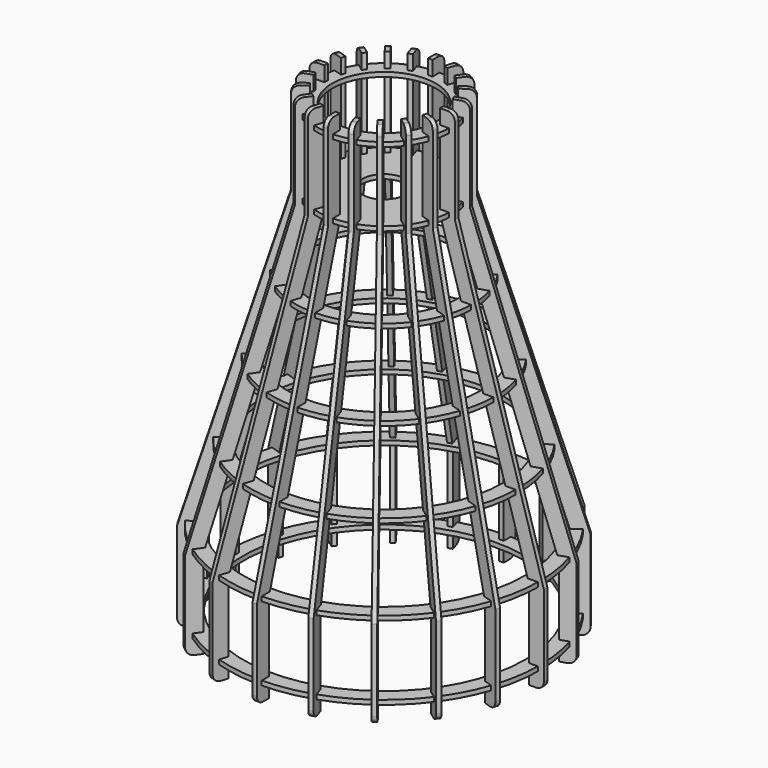
from build123d import *

# Parameters (mm, degrees)
F6_R      = 35
F7_DEPTH  = 3
F8_R      = 14.5
F9_DEPTH  = 3
F10_R     = 50
F11_DEPTH = 3
F12_R     = 65
F13_DEPTH = 3
F14_R     = 80
F15_DEPTH = 3
F16_R     = 95
F17_DEPTH = 3
F18_R     = 95
F19_DEPTH = 3
F21_DEPTH = 1.5
F22_COUNT = 20


with BuildPart() as f7:
    # F6 (on offset) → F7 (new body)
    with BuildSketch(Plane.XY.offset(150)):
        with BuildLine():
            Line((-42, -1.4), (-44.978217, -1.4))
            ThreePointArc((-44.978217, -1.4), (-44.445975, -7.039551), (-43.20945, -12.567554))
            Line((-43.20945, -12.567554), (-40.376997, -11.647235))
            Line((-40.376997, -11.647235), (-39.51175, -14.310193))
            Line((-39.51175, -14.310193), (-42.344203, -15.230513))
            ThreePointArc((-42.344203, -15.230513), (-40.095294, -20.429572), (-37.211041, -25.304909))
            Line((-37.211041, -25.304909), (-34.801613, -23.554357))
            Line((-34.801613, -23.554357), (-33.155814, -25.819604))
            Line((-33.155814, -25.819604), (-35.565243, -27.570156))
            ThreePointArc((-35.565243, -27.570156), (-31.819805, -31.819805), (-27.570156, -35.565243))
            Line((-27.570156, -35.565243), (-25.819604, -33.155814))
            Line((-25.819604, -33.155814), (-23.554357, -34.801613))
            Line((-23.554357, -34.801613), (-25.304909, -37.211041))
            ThreePointArc((-25.304909, -37.211041), (-20.429572, -40.095294), (-15.230513, -42.344203))
            Line((-15.230513, -42.344203), (-14.310193, -39.51175))
            Line((-14.310193, -39.51175), (-11.647235, -40.376997))
            Line((-11.647235, -40.376997), (-12.567554, -43.20945))
            ThreePointArc((-12.567554, -43.20945), (-7.039551, -44.445975), (-1.4, -44.978217))
            Line((-1.4, -44.978217), (-1.4, -42))
            Line((-1.4, -42), (1.4, -42))
            Line((1.4, -42), (1.4, -44.978217))
            ThreePointArc((1.4, -44.978217), (7.039551, -44.445975), (12.567554, -43.20945))
            Line((12.567554, -43.20945), (11.647235, -40.376997))
            Line((11.647235, -40.376997), (14.310193, -39.51175))
            Line((14.310193, -39.51175), (15.230513, -42.344203))
            ThreePointArc((15.230513, -42.344203), (20.429572, -40.095294), (25.304909, -37.211041))
            Line((25.304909, -37.211041), (23.554357, -34.801613))
            Line((23.554357, -34.801613), (25.819604, -33.155814))
            Line((25.819604, -33.155814), (27.570156, -35.565243))
            ThreePointArc((27.570156, -35.565243), (31.819805, -31.819805), (35.565243, -27.570156))
            Line((35.565243, -27.570156), (33.155814, -25.819604))
            Line((33.155814, -25.819604), (34.801613, -23.554357))
            Line((34.801613, -23.554357), (37.211041, -25.304909))
            ThreePointArc((37.211041, -25.304909), (40.095294, -20.429572), (42.344203, -15.230513))
            Line((42.344203, -15.230513), (39.51175, -14.310193))
            Line((39.51175, -14.310193), (40.376997, -11.647235))
            Line((40.376997, -11.647235), (43.20945, -12.567554))
            ThreePointArc((43.20945, -12.567554), (44.445975, -7.039551), (44.978217, -1.4))
            Line((44.978217, -1.4), (42, -1.4))
            Line((42, -1.4), (42, 1.4))
            Line((42, 1.4), (44.978217, 1.4))
            ThreePointArc((44.978217, 1.4), (44.445975, 7.039551), (43.20945, 12.567554))
            Line((43.20945, 12.567554), (40.376997, 11.647235))
            Line((40.376997, 11.647235), (39.51175, 14.310193))
            Line((39.51175, 14.310193), (42.344203, 15.230513))
            ThreePointArc((42.344203, 15.230513), (40.095294, 20.429572), (37.211041, 25.304909))
            Line((37.211041, 25.304909), (34.801613, 23.554357))
            Line((34.801613, 23.554357), (33.155814, 25.819604))
            Line((33.155814, 25.819604), (35.565243, 27.570156))
            ThreePointArc((35.565243, 27.570156), (31.819805, 31.819805), (27.570156, 35.565243))
            Line((27.570156, 35.565243), (25.819604, 33.155814))
            Line((25.819604, 33.155814), (23.554357, 34.801613))
            Line((23.554357, 34.801613), (25.304909, 37.211041))
            ThreePointArc((25.304909, 37.211041), (20.429572, 40.095294), (15.230513, 42.344203))
            Line((15.230513, 42.344203), (14.310193, 39.51175))
            Line((14.310193, 39.51175), (11.647235, 40.376997))
            Line((11.647235, 40.376997), (12.567554, 43.20945))
            ThreePointArc((12.567554, 43.20945), (7.039551, 44.445975), (1.4, 44.978217))
            Line((1.4, 44.978217), (1.4, 42))
            Line((1.4, 42), (-1.4, 42))
            Line((-1.4, 42), (-1.4, 44.978217))
            ThreePointArc((-1.4, 44.978217), (-7.039551, 44.445975), (-12.567554, 43.20945))
            Line((-12.567554, 43.20945), (-11.647235, 40.376997))
            Line((-11.647235, 40.376997), (-14.310193, 39.51175))
            Line((-14.310193, 39.51175), (-15.230513, 42.344203))
            ThreePointArc((-15.230513, 42.344203), (-20.429572, 40.095294), (-25.304909, 37.211041))
            Line((-25.304909, 37.211041), (-23.554357, 34.801613))
            Line((-23.554357, 34.801613), (-25.819604, 33.155814))
            Line((-25.819604, 33.155814), (-27.570156, 35.565243))
            ThreePointArc((-27.570156, 35.565243), (-31.819805, 31.819805), (-35.565243, 27.570156))
            Line((-35.565243, 27.570156), (-33.155814, 25.819604))
            Line((-33.155814, 25.819604), (-34.801613, 23.554357))
            Line((-34.801613, 23.554357), (-37.211041, 25.304909))
            ThreePointArc((-37.211041, 25.304909), (-40.095294, 20.429572), (-42.344203, 15.230513))
            Line((-42.344203, 15.230513), (-39.51175, 14.310193))
            Line((-39.51175, 14.310193), (-40.376997, 11.647235))
            Line((-40.376997, 11.647235), (-43.20945, 12.567554))
            ThreePointArc((-43.20945, 12.567554), (-44.445975, 7.039551), (-44.978217, 1.4))
            Line((-44.978217, 1.4), (-42, 1.4))
            Line((-42, 1.4), (-42, -1.4))
        make_face()
        Circle(F6_R, mode=Mode.SUBTRACT)
    extrude(amount=F7_DEPTH)


with BuildPart() as f9:
    # F8 (on offset) → F9 (new body)
    with BuildSketch(Plane.XY.offset(100)):
        with BuildLine():
            Line((-41.978217, -1.4), (-44.978217, -1.4))
            ThreePointArc((-44.978217, -1.4), (-44.445975, -7.039551), (-43.20945, -12.567554))
            Line((-43.20945, -12.567554), (-40.356281, -11.640503))
            Line((-40.356281, -11.640503), (-39.491033, -14.303462))
            Line((-39.491033, -14.303462), (-42.344203, -15.230513))
            ThreePointArc((-42.344203, -15.230513), (-40.095294, -20.429572), (-37.211041, -25.304909))
            Line((-37.211041, -25.304909), (-34.78399, -23.541553))
            Line((-34.78399, -23.541553), (-33.138192, -25.806801))
            Line((-33.138192, -25.806801), (-35.565243, -27.570156))
            ThreePointArc((-35.565243, -27.570156), (-31.819805, -31.819805), (-27.570156, -35.565243))
            Line((-27.570156, -35.565243), (-25.806801, -33.138192))
            Line((-25.806801, -33.138192), (-23.541553, -34.78399))
            Line((-23.541553, -34.78399), (-25.304909, -37.211041))
            ThreePointArc((-25.304909, -37.211041), (-20.429572, -40.095294), (-15.230513, -42.344203))
            Line((-15.230513, -42.344203), (-14.303462, -39.491033))
            Line((-14.303462, -39.491033), (-11.640503, -40.356281))
            Line((-11.640503, -40.356281), (-12.567554, -43.20945))
            ThreePointArc((-12.567554, -43.20945), (-7.039551, -44.445975), (-1.4, -44.978217))
            Line((-1.4, -44.978217), (-1.4, -41.978217))
            Line((-1.4, -41.978217), (1.4, -41.978217))
            Line((1.4, -41.978217), (1.4, -44.978217))
            ThreePointArc((1.4, -44.978217), (7.039551, -44.445975), (12.567554, -43.20945))
            Line((12.567554, -43.20945), (11.640503, -40.356281))
            Line((11.640503, -40.356281), (14.303462, -39.491033))
            Line((14.303462, -39.491033), (15.230513, -42.344203))
            ThreePointArc((15.230513, -42.344203), (20.429572, -40.095294), (25.304909, -37.211041))
            Line((25.304909, -37.211041), (23.541553, -34.78399))
            Line((23.541553, -34.78399), (25.806801, -33.138192))
            Line((25.806801, -33.138192), (27.570156, -35.565243))
            ThreePointArc((27.570156, -35.565243), (31.819805, -31.819805), (35.565243, -27.570156))
            Line((35.565243, -27.570156), (33.138192, -25.806801))
            Line((33.138192, -25.806801), (34.78399, -23.541553))
            Line((34.78399, -23.541553), (37.211041, -25.304909))
            ThreePointArc((37.211041, -25.304909), (40.095294, -20.429572), (42.344203, -15.230513))
            Line((42.344203, -15.230513), (39.491033, -14.303462))
            Line((39.491033, -14.303462), (40.356281, -11.640503))
            Line((40.356281, -11.640503), (43.20945, -12.567554))
            ThreePointArc((43.20945, -12.567554), (44.445975, -7.039551), (44.978217, -1.4))
            Line((44.978217, -1.4), (41.978217, -1.4))
            Line((41.978217, -1.4), (41.978217, 1.4))
            Line((41.978217, 1.4), (44.978217, 1.4))
            ThreePointArc((44.978217, 1.4), (44.445975, 7.039551), (43.20945, 12.567554))
            Line((43.20945, 12.567554), (40.356281, 11.640503))
            Line((40.356281, 11.640503), (39.491033, 14.303462))
            Line((39.491033, 14.303462), (42.344203, 15.230513))
            ThreePointArc((42.344203, 15.230513), (40.095294, 20.429572), (37.211041, 25.304909))
            Line((37.211041, 25.304909), (34.78399, 23.541553))
            Line((34.78399, 23.541553), (33.138192, 25.806801))
            Line((33.138192, 25.806801), (35.565243, 27.570156))
            ThreePointArc((35.565243, 27.570156), (31.819805, 31.819805), (27.570156, 35.565243))
            Line((27.570156, 35.565243), (25.806801, 33.138192))
            Line((25.806801, 33.138192), (23.541553, 34.78399))
            Line((23.541553, 34.78399), (25.304909, 37.211041))
            ThreePointArc((25.304909, 37.211041), (20.429572, 40.095294), (15.230513, 42.344203))
            Line((15.230513, 42.344203), (14.303462, 39.491033))
            Line((14.303462, 39.491033), (11.640503, 40.356281))
            Line((11.640503, 40.356281), (12.567554, 43.20945))
            ThreePointArc((12.567554, 43.20945), (7.039551, 44.445975), (1.4, 44.978217))
            Line((1.4, 44.978217), (1.4, 41.978217))
            Line((1.4, 41.978217), (-1.4, 41.978217))
            Line((-1.4, 41.978217), (-1.4, 44.978217))
            ThreePointArc((-1.4, 44.978217), (-7.039551, 44.445975), (-12.567554, 43.20945))
            Line((-12.567554, 43.20945), (-11.640503, 40.356281))
            Line((-11.640503, 40.356281), (-14.303462, 39.491033))
            Line((-14.303462, 39.491033), (-15.230513, 42.344203))
            ThreePointArc((-15.230513, 42.344203), (-20.429572, 40.095294), (-25.304909, 37.211041))
            Line((-25.304909, 37.211041), (-23.541553, 34.78399))
            Line((-23.541553, 34.78399), (-25.806801, 33.138192))
            Line((-25.806801, 33.138192), (-27.570156, 35.565243))
            ThreePointArc((-27.570156, 35.565243), (-31.819805, 31.819805), (-35.565243, 27.570156))
            Line((-35.565243, 27.570156), (-33.138192, 25.806801))
            Line((-33.138192, 25.806801), (-34.78399, 23.541553))
            Line((-34.78399, 23.541553), (-37.211041, 25.304909))
            ThreePointArc((-37.211041, 25.304909), (-40.095294, 20.429572), (-42.344203, 15.230513))
            Line((-42.344203, 15.230513), (-39.491033, 14.303462))
            Line((-39.491033, 14.303462), (-40.356281, 11.640503))
            Line((-40.356281, 11.640503), (-43.20945, 12.567554))
            ThreePointArc((-43.20945, 12.567554), (-44.445975, 7.039551), (-44.978217, 1.4))
            Line((-44.978217, 1.4), (-41.978217, 1.4))
            Line((-41.978217, 1.4), (-41.978217, -1.4))
        make_face()
        Circle(F8_R, mode=Mode.SUBTRACT)
    extrude(amount=F9_DEPTH)


with BuildPart() as f11:
    # F10 (on offset) → F11 (new body)
    with BuildSketch(Plane.XY.offset(50)):
        with BuildLine():
            Line((-57, -1.4), (-59.983664, -1.4))
            ThreePointArc((-59.983664, -1.4), (-59.2613, -9.386068), (-57.480479, -17.204493))
            Line((-57.480479, -17.204493), (-54.642845, -16.28249))
            Line((-54.642845, -16.28249), (-53.777598, -18.945448))
            Line((-53.777598, -18.945448), (-56.615231, -19.867451))
            ThreePointArc((-56.615231, -19.867451), (-53.460391, -27.23943), (-49.350703, -34.12489))
            Line((-49.350703, -34.12489), (-46.936868, -32.371136))
            Line((-46.936868, -32.371136), (-45.291069, -34.636383))
            Line((-45.291069, -34.636383), (-47.704905, -36.390137))
            ThreePointArc((-47.704905, -36.390137), (-42.426407, -42.426407), (-36.390137, -47.704905))
            Line((-36.390137, -47.704905), (-34.636383, -45.291069))
            Line((-34.636383, -45.291069), (-32.371136, -46.936868))
            Line((-32.371136, -46.936868), (-34.12489, -49.350703))
            ThreePointArc((-34.12489, -49.350703), (-27.23943, -53.460391), (-19.867451, -56.615231))
            Line((-19.867451, -56.615231), (-18.945448, -53.777598))
            Line((-18.945448, -53.777598), (-16.28249, -54.642845))
            Line((-16.28249, -54.642845), (-17.204493, -57.480479))
            ThreePointArc((-17.204493, -57.480479), (-9.386068, -59.2613), (-1.4, -59.983664))
            Line((-1.4, -59.983664), (-1.4, -57))
            Line((-1.4, -57), (1.4, -57))
            Line((1.4, -57), (1.4, -59.983664))
            ThreePointArc((1.4, -59.983664), (9.386068, -59.2613), (17.204493, -57.480479))
            Line((17.204493, -57.480479), (16.28249, -54.642845))
            Line((16.28249, -54.642845), (18.945448, -53.777598))
            Line((18.945448, -53.777598), (19.867451, -56.615231))
            ThreePointArc((19.867451, -56.615231), (27.23943, -53.460391), (34.12489, -49.350703))
            Line((34.12489, -49.350703), (32.371136, -46.936868))
            Line((32.371136, -46.936868), (34.636383, -45.291069))
            Line((34.636383, -45.291069), (36.390137, -47.704905))
            ThreePointArc((36.390137, -47.704905), (42.426407, -42.426407), (47.704905, -36.390137))
            Line((47.704905, -36.390137), (45.291069, -34.636383))
            Line((45.291069, -34.636383), (46.936868, -32.371136))
            Line((46.936868, -32.371136), (49.350703, -34.12489))
            ThreePointArc((49.350703, -34.12489), (53.460391, -27.23943), (56.615231, -19.867451))
            Line((56.615231, -19.867451), (53.777598, -18.945448))
            Line((53.777598, -18.945448), (54.642845, -16.28249))
            Line((54.642845, -16.28249), (57.480479, -17.204493))
            ThreePointArc((57.480479, -17.204493), (59.2613, -9.386068), (59.983664, -1.4))
            Line((59.983664, -1.4), (57, -1.4))
            Line((57, -1.4), (57, 1.4))
            Line((57, 1.4), (59.983664, 1.4))
            ThreePointArc((59.983664, 1.4), (59.2613, 9.386068), (57.480479, 17.204493))
            Line((57.480479, 17.204493), (54.642845, 16.28249))
            Line((54.642845, 16.28249), (53.777598, 18.945448))
            Line((53.777598, 18.945448), (56.615231, 19.867451))
            ThreePointArc((56.615231, 19.867451), (53.460391, 27.23943), (49.350703, 34.12489))
            Line((49.350703, 34.12489), (46.936868, 32.371136))
            Line((46.936868, 32.371136), (45.291069, 34.636383))
            Line((45.291069, 34.636383), (47.704905, 36.390137))
            ThreePointArc((47.704905, 36.390137), (42.426407, 42.426407), (36.390137, 47.704905))
            Line((36.390137, 47.704905), (34.636383, 45.291069))
            Line((34.636383, 45.291069), (32.371136, 46.936868))
            Line((32.371136, 46.936868), (34.12489, 49.350703))
            ThreePointArc((34.12489, 49.350703), (27.23943, 53.460391), (19.867451, 56.615231))
            Line((19.867451, 56.615231), (18.945448, 53.777598))
            Line((18.945448, 53.777598), (16.28249, 54.642845))
            Line((16.28249, 54.642845), (17.204493, 57.480479))
            ThreePointArc((17.204493, 57.480479), (9.386068, 59.2613), (1.4, 59.983664))
            Line((1.4, 59.983664), (1.4, 57))
            Line((1.4, 57), (-1.4, 57))
            Line((-1.4, 57), (-1.4, 59.983664))
            ThreePointArc((-1.4, 59.983664), (-9.386068, 59.2613), (-17.204493, 57.480479))
            Line((-17.204493, 57.480479), (-16.28249, 54.642845))
            Line((-16.28249, 54.642845), (-18.945448, 53.777598))
            Line((-18.945448, 53.777598), (-19.867451, 56.615231))
            ThreePointArc((-19.867451, 56.615231), (-27.23943, 53.460391), (-34.12489, 49.350703))
            Line((-34.12489, 49.350703), (-32.371136, 46.936868))
            Line((-32.371136, 46.936868), (-34.636383, 45.291069))
            Line((-34.636383, 45.291069), (-36.390137, 47.704905))
            ThreePointArc((-36.390137, 47.704905), (-42.426407, 42.426407), (-47.704905, 36.390137))
            Line((-47.704905, 36.390137), (-45.291069, 34.636383))
            Line((-45.291069, 34.636383), (-46.936868, 32.371136))
            Line((-46.936868, 32.371136), (-49.350703, 34.12489))
            ThreePointArc((-49.350703, 34.12489), (-53.460391, 27.23943), (-56.615231, 19.867451))
            Line((-56.615231, 19.867451), (-53.777598, 18.945448))
            Line((-53.777598, 18.945448), (-54.642845, 16.28249))
            Line((-54.642845, 16.28249), (-57.480479, 17.204493))
            ThreePointArc((-57.480479, 17.204493), (-59.2613, 9.386068), (-59.983664, 1.4))
            Line((-59.983664, 1.4), (-57, 1.4))
            Line((-57, 1.4), (-57, -1.4))
        make_face()
        Circle(F10_R, mode=Mode.SUBTRACT)
    extrude(amount=F11_DEPTH)


with BuildPart() as f13:
    # F12 (on Top) → F13 (new body)
    with BuildSketch(Plane.XY):
        with BuildLine():
            Line((-72, -1.4), (-74.986932, -1.4))
            ThreePointArc((-74.986932, -1.4), (-74.076626, -11.732585), (-71.749434, -21.840757))
            Line((-71.749434, -21.840757), (-68.908693, -20.917744))
            Line((-68.908693, -20.917744), (-68.043445, -23.580703))
            Line((-68.043445, -23.580703), (-70.884187, -24.503716))
            ThreePointArc((-70.884187, -24.503716), (-66.825489, -34.049287), (-61.488602, -42.943589))
            Line((-61.488602, -42.943589), (-59.072123, -41.187914))
            Line((-59.072123, -41.187914), (-57.426324, -43.453162))
            Line((-57.426324, -43.453162), (-59.842803, -45.208837))
            ThreePointArc((-59.842803, -45.208837), (-53.033009, -53.033009), (-45.208837, -59.842803))
            Line((-45.208837, -59.842803), (-43.453162, -57.426324))
            Line((-43.453162, -57.426324), (-41.187914, -59.072123))
            Line((-41.187914, -59.072123), (-42.943589, -61.488602))
            ThreePointArc((-42.943589, -61.488602), (-34.049287, -66.825489), (-24.503716, -70.884187))
            Line((-24.503716, -70.884187), (-23.580703, -68.043445))
            Line((-23.580703, -68.043445), (-20.917744, -68.908693))
            Line((-20.917744, -68.908693), (-21.840757, -71.749434))
            ThreePointArc((-21.840757, -71.749434), (-11.732585, -74.076626), (-1.4, -74.986932))
            Line((-1.4, -74.986932), (-1.4, -72))
            Line((-1.4, -72), (1.4, -72))
            Line((1.4, -72), (1.4, -74.986932))
            ThreePointArc((1.4, -74.986932), (11.732585, -74.076626), (21.840757, -71.749434))
            Line((21.840757, -71.749434), (20.917744, -68.908693))
            Line((20.917744, -68.908693), (23.580703, -68.043445))
            Line((23.580703, -68.043445), (24.503716, -70.884187))
            ThreePointArc((24.503716, -70.884187), (34.049287, -66.825489), (42.943589, -61.488602))
            Line((42.943589, -61.488602), (41.187914, -59.072123))
            Line((41.187914, -59.072123), (43.453162, -57.426324))
            Line((43.453162, -57.426324), (45.208837, -59.842803))
            ThreePointArc((45.208837, -59.842803), (53.033009, -53.033009), (59.842803, -45.208837))
            Line((59.842803, -45.208837), (57.426324, -43.453162))
            Line((57.426324, -43.453162), (59.072123, -41.187914))
            Line((59.072123, -41.187914), (61.488602, -42.943589))
            ThreePointArc((61.488602, -42.943589), (66.825489, -34.049287), (70.884187, -24.503716))
            Line((70.884187, -24.503716), (68.043445, -23.580703))
            Line((68.043445, -23.580703), (68.908693, -20.917744))
            Line((68.908693, -20.917744), (71.749434, -21.840757))
            ThreePointArc((71.749434, -21.840757), (74.076626, -11.732585), (74.986932, -1.4))
            Line((74.986932, -1.4), (72, -1.4))
            Line((72, -1.4), (72, 1.4))
            Line((72, 1.4), (74.986932, 1.4))
            ThreePointArc((74.986932, 1.4), (74.076626, 11.732585), (71.749434, 21.840757))
            Line((71.749434, 21.840757), (68.908693, 20.917744))
            Line((68.908693, 20.917744), (68.043445, 23.580703))
            Line((68.043445, 23.580703), (70.884187, 24.503716))
            ThreePointArc((70.884187, 24.503716), (66.825489, 34.049287), (61.488602, 42.943589))
            Line((61.488602, 42.943589), (59.072123, 41.187914))
            Line((59.072123, 41.187914), (57.426324, 43.453162))
            Line((57.426324, 43.453162), (59.842803, 45.208837))
            ThreePointArc((59.842803, 45.208837), (53.033009, 53.033009), (45.208837, 59.842803))
            Line((45.208837, 59.842803), (43.453162, 57.426324))
            Line((43.453162, 57.426324), (41.187914, 59.072123))
            Line((41.187914, 59.072123), (42.943589, 61.488602))
            ThreePointArc((42.943589, 61.488602), (34.049287, 66.825489), (24.503716, 70.884187))
            Line((24.503716, 70.884187), (23.580703, 68.043445))
            Line((23.580703, 68.043445), (20.917744, 68.908693))
            Line((20.917744, 68.908693), (21.840757, 71.749434))
            ThreePointArc((21.840757, 71.749434), (11.732585, 74.076626), (1.4, 74.986932))
            Line((1.4, 74.986932), (1.4, 72))
            Line((1.4, 72), (-1.4, 72))
            Line((-1.4, 72), (-1.4, 74.986932))
            ThreePointArc((-1.4, 74.986932), (-11.732585, 74.076626), (-21.840757, 71.749434))
            Line((-21.840757, 71.749434), (-20.917744, 68.908693))
            Line((-20.917744, 68.908693), (-23.580703, 68.043445))
            Line((-23.580703, 68.043445), (-24.503716, 70.884187))
            ThreePointArc((-24.503716, 70.884187), (-34.049287, 66.825489), (-42.943589, 61.488602))
            Line((-42.943589, 61.488602), (-41.187914, 59.072123))
            Line((-41.187914, 59.072123), (-43.453162, 57.426324))
            Line((-43.453162, 57.426324), (-45.208837, 59.842803))
            ThreePointArc((-45.208837, 59.842803), (-53.033009, 53.033009), (-59.842803, 45.208837))
            Line((-59.842803, 45.208837), (-57.426324, 43.453162))
            Line((-57.426324, 43.453162), (-59.072123, 41.187914))
            Line((-59.072123, 41.187914), (-61.488602, 42.943589))
            ThreePointArc((-61.488602, 42.943589), (-66.825489, 34.049287), (-70.884187, 24.503716))
            Line((-70.884187, 24.503716), (-68.043445, 23.580703))
            Line((-68.043445, 23.580703), (-68.908693, 20.917744))
            Line((-68.908693, 20.917744), (-71.749434, 21.840757))
            ThreePointArc((-71.749434, 21.840757), (-74.076626, 11.732585), (-74.986932, 1.4))
            Line((-74.986932, 1.4), (-72, 1.4))
            Line((-72, 1.4), (-72, -1.4))
        make_face()
        Circle(F12_R, mode=Mode.SUBTRACT)
    extrude(amount=F13_DEPTH)


with BuildPart() as f15:
    # F14 (on offset) → F15 (new body)
    with BuildSketch(Plane.XY.offset(-50)):
        with BuildLine():
            Line((-87, -1.4), (-89.98911, -1.4))
            ThreePointArc((-89.98911, -1.4), (-88.891951, -14.079102), (-86.017354, -26.476685))
            Line((-86.017354, -26.476685), (-83.174541, -25.552999))
            Line((-83.174541, -25.552999), (-82.309293, -28.215958))
            Line((-82.309293, -28.215958), (-85.152106, -29.139644))
            ThreePointArc((-85.152106, -29.139644), (-80.190587, -40.859145), (-73.625619, -51.761648))
            Line((-73.625619, -51.761648), (-71.207378, -50.004693))
            Line((-71.207378, -50.004693), (-69.561579, -52.269941))
            Line((-69.561579, -52.269941), (-71.97982, -54.026896))
            ThreePointArc((-71.97982, -54.026896), (-63.63961, -63.63961), (-54.026896, -71.97982))
            Line((-54.026896, -71.97982), (-52.269941, -69.561579))
            Line((-52.269941, -69.561579), (-50.004693, -71.207378))
            Line((-50.004693, -71.207378), (-51.761648, -73.625619))
            ThreePointArc((-51.761648, -73.625619), (-40.859145, -80.190587), (-29.139644, -85.152106))
            Line((-29.139644, -85.152106), (-28.215958, -82.309293))
            Line((-28.215958, -82.309293), (-25.552999, -83.174541))
            Line((-25.552999, -83.174541), (-26.476685, -86.017354))
            ThreePointArc((-26.476685, -86.017354), (-14.079102, -88.891951), (-1.4, -89.98911))
            Line((-1.4, -89.98911), (-1.4, -87))
            Line((-1.4, -87), (1.4, -87))
            Line((1.4, -87), (1.4, -89.98911))
            ThreePointArc((1.4, -89.98911), (14.079102, -88.891951), (26.476685, -86.017354))
            Line((26.476685, -86.017354), (25.552999, -83.174541))
            Line((25.552999, -83.174541), (28.215958, -82.309293))
            Line((28.215958, -82.309293), (29.139644, -85.152106))
            ThreePointArc((29.139644, -85.152106), (40.859145, -80.190587), (51.761648, -73.625619))
            Line((51.761648, -73.625619), (50.004693, -71.207378))
            Line((50.004693, -71.207378), (52.269941, -69.561579))
            Line((52.269941, -69.561579), (54.026896, -71.97982))
            ThreePointArc((54.026896, -71.97982), (63.63961, -63.63961), (71.97982, -54.026896))
            Line((71.97982, -54.026896), (69.561579, -52.269941))
            Line((69.561579, -52.269941), (71.207378, -50.004693))
            Line((71.207378, -50.004693), (73.625619, -51.761648))
            ThreePointArc((73.625619, -51.761648), (80.190587, -40.859145), (85.152106, -29.139644))
            Line((85.152106, -29.139644), (82.309293, -28.215958))
            Line((82.309293, -28.215958), (83.174541, -25.552999))
            Line((83.174541, -25.552999), (86.017354, -26.476685))
            ThreePointArc((86.017354, -26.476685), (88.891951, -14.079102), (89.98911, -1.4))
            Line((89.98911, -1.4), (87, -1.4))
            Line((87, -1.4), (87, 1.4))
            Line((87, 1.4), (89.98911, 1.4))
            ThreePointArc((89.98911, 1.4), (88.891951, 14.079102), (86.017354, 26.476685))
            Line((86.017354, 26.476685), (83.174541, 25.552999))
            Line((83.174541, 25.552999), (82.309293, 28.215958))
            Line((82.309293, 28.215958), (85.152106, 29.139644))
            ThreePointArc((85.152106, 29.139644), (80.190587, 40.859145), (73.625619, 51.761648))
            Line((73.625619, 51.761648), (71.207378, 50.004693))
            Line((71.207378, 50.004693), (69.561579, 52.269941))
            Line((69.561579, 52.269941), (71.97982, 54.026896))
            ThreePointArc((71.97982, 54.026896), (63.63961, 63.63961), (54.026896, 71.97982))
            Line((54.026896, 71.97982), (52.269941, 69.561579))
            Line((52.269941, 69.561579), (50.004693, 71.207378))
            Line((50.004693, 71.207378), (51.761648, 73.625619))
            ThreePointArc((51.761648, 73.625619), (40.859145, 80.190587), (29.139644, 85.152106))
            Line((29.139644, 85.152106), (28.215958, 82.309293))
            Line((28.215958, 82.309293), (25.552999, 83.174541))
            Line((25.552999, 83.174541), (26.476685, 86.017354))
            ThreePointArc((26.476685, 86.017354), (14.079102, 88.891951), (1.4, 89.98911))
            Line((1.4, 89.98911), (1.4, 87))
            Line((1.4, 87), (-1.4, 87))
            Line((-1.4, 87), (-1.4, 89.98911))
            ThreePointArc((-1.4, 89.98911), (-14.079102, 88.891951), (-26.476685, 86.017354))
            Line((-26.476685, 86.017354), (-25.552999, 83.174541))
            Line((-25.552999, 83.174541), (-28.215958, 82.309293))
            Line((-28.215958, 82.309293), (-29.139644, 85.152106))
            ThreePointArc((-29.139644, 85.152106), (-40.859145, 80.190587), (-51.761648, 73.625619))
            Line((-51.761648, 73.625619), (-50.004693, 71.207378))
            Line((-50.004693, 71.207378), (-52.269941, 69.561579))
            Line((-52.269941, 69.561579), (-54.026896, 71.97982))
            ThreePointArc((-54.026896, 71.97982), (-63.63961, 63.63961), (-71.97982, 54.026896))
            Line((-71.97982, 54.026896), (-69.561579, 52.269941))
            Line((-69.561579, 52.269941), (-71.207378, 50.004693))
            Line((-71.207378, 50.004693), (-73.625619, 51.761648))
            ThreePointArc((-73.625619, 51.761648), (-80.190587, 40.859145), (-85.152106, 29.139644))
            Line((-85.152106, 29.139644), (-82.309293, 28.215958))
            Line((-82.309293, 28.215958), (-83.174541, 25.552999))
            Line((-83.174541, 25.552999), (-86.017354, 26.476685))
            ThreePointArc((-86.017354, 26.476685), (-88.891951, 14.079102), (-89.98911, 1.4))
            Line((-89.98911, 1.4), (-87, 1.4))
            Line((-87, 1.4), (-87, -1.4))
        make_face()
        Circle(F14_R, mode=Mode.SUBTRACT)
    extrude(amount=F15_DEPTH)


with BuildPart() as f17:
    # F16 (on offset) → F17 (new body)
    with BuildSketch(Plane.XY.offset(-100)):
        with BuildLine():
            Line((-102, -1.4), (-104.990666, -1.4))
            ThreePointArc((-104.990666, -1.4), (-103.707276, -16.425619), (-100.284681, -31.112421))
            Line((-100.284681, -31.112421), (-97.440388, -30.188254))
            Line((-97.440388, -30.188254), (-96.575141, -32.851213))
            Line((-96.575141, -32.851213), (-99.419433, -33.775379))
            ThreePointArc((-99.419433, -33.775379), (-93.555685, -47.669002), (-85.762133, -60.579341))
            Line((-85.762133, -60.579341), (-83.342633, -58.821472))
            Line((-83.342633, -58.821472), (-81.696834, -61.08672))
            Line((-81.696834, -61.08672), (-84.116334, -62.844589))
            ThreePointArc((-84.116334, -62.844589), (-74.246212, -74.246212), (-62.844589, -84.116334))
            Line((-62.844589, -84.116334), (-61.08672, -81.696834))
            Line((-61.08672, -81.696834), (-58.821472, -83.342633))
            Line((-58.821472, -83.342633), (-60.579341, -85.762133))
            ThreePointArc((-60.579341, -85.762133), (-47.669002, -93.555685), (-33.775379, -99.419433))
            Line((-33.775379, -99.419433), (-32.851213, -96.575141))
            Line((-32.851213, -96.575141), (-30.188254, -97.440388))
            Line((-30.188254, -97.440388), (-31.112421, -100.284681))
            ThreePointArc((-31.112421, -100.284681), (-16.425619, -103.707276), (-1.4, -104.990666))
            Line((-1.4, -104.990666), (-1.4, -102))
            Line((-1.4, -102), (1.4, -102))
            Line((1.4, -102), (1.4, -104.990666))
            ThreePointArc((1.4, -104.990666), (16.425619, -103.707276), (31.112421, -100.284681))
            Line((31.112421, -100.284681), (30.188254, -97.440388))
            Line((30.188254, -97.440388), (32.851213, -96.575141))
            Line((32.851213, -96.575141), (33.775379, -99.419433))
            ThreePointArc((33.775379, -99.419433), (47.669002, -93.555685), (60.579341, -85.762133))
            Line((60.579341, -85.762133), (58.821472, -83.342633))
            Line((58.821472, -83.342633), (61.08672, -81.696834))
            Line((61.08672, -81.696834), (62.844589, -84.116334))
            ThreePointArc((62.844589, -84.116334), (74.246212, -74.246212), (84.116334, -62.844589))
            Line((84.116334, -62.844589), (81.696834, -61.08672))
            Line((81.696834, -61.08672), (83.342633, -58.821472))
            Line((83.342633, -58.821472), (85.762133, -60.579341))
            ThreePointArc((85.762133, -60.579341), (93.555685, -47.669002), (99.419433, -33.775379))
            Line((99.419433, -33.775379), (96.575141, -32.851213))
            Line((96.575141, -32.851213), (97.440388, -30.188254))
            Line((97.440388, -30.188254), (100.284681, -31.112421))
            ThreePointArc((100.284681, -31.112421), (103.707276, -16.425619), (104.990666, -1.4))
            Line((104.990666, -1.4), (102, -1.4))
            Line((102, -1.4), (102, 1.4))
            Line((102, 1.4), (104.990666, 1.4))
            ThreePointArc((104.990666, 1.4), (103.707276, 16.425619), (100.284681, 31.112421))
            Line((100.284681, 31.112421), (97.440388, 30.188254))
            Line((97.440388, 30.188254), (96.575141, 32.851213))
            Line((96.575141, 32.851213), (99.419433, 33.775379))
            ThreePointArc((99.419433, 33.775379), (93.555685, 47.669002), (85.762133, 60.579341))
            Line((85.762133, 60.579341), (83.342633, 58.821472))
            Line((83.342633, 58.821472), (81.696834, 61.08672))
            Line((81.696834, 61.08672), (84.116334, 62.844589))
            ThreePointArc((84.116334, 62.844589), (74.246212, 74.246212), (62.844589, 84.116334))
            Line((62.844589, 84.116334), (61.08672, 81.696834))
            Line((61.08672, 81.696834), (58.821472, 83.342633))
            Line((58.821472, 83.342633), (60.579341, 85.762133))
            ThreePointArc((60.579341, 85.762133), (47.669002, 93.555685), (33.775379, 99.419433))
            Line((33.775379, 99.419433), (32.851213, 96.575141))
            Line((32.851213, 96.575141), (30.188254, 97.440388))
            Line((30.188254, 97.440388), (31.112421, 100.284681))
            ThreePointArc((31.112421, 100.284681), (16.425619, 103.707276), (1.4, 104.990666))
            Line((1.4, 104.990666), (1.4, 102))
            Line((1.4, 102), (-1.4, 102))
            Line((-1.4, 102), (-1.4, 104.990666))
            ThreePointArc((-1.4, 104.990666), (-16.425619, 103.707276), (-31.112421, 100.284681))
            Line((-31.112421, 100.284681), (-30.188254, 97.440388))
            Line((-30.188254, 97.440388), (-32.851213, 96.575141))
            Line((-32.851213, 96.575141), (-33.775379, 99.419433))
            ThreePointArc((-33.775379, 99.419433), (-47.669002, 93.555685), (-60.579341, 85.762133))
            Line((-60.579341, 85.762133), (-58.821472, 83.342633))
            Line((-58.821472, 83.342633), (-61.08672, 81.696834))
            Line((-61.08672, 81.696834), (-62.844589, 84.116334))
            ThreePointArc((-62.844589, 84.116334), (-74.246212, 74.246212), (-84.116334, 62.844589))
            Line((-84.116334, 62.844589), (-81.696834, 61.08672))
            Line((-81.696834, 61.08672), (-83.342633, 58.821472))
            Line((-83.342633, 58.821472), (-85.762133, 60.579341))
            ThreePointArc((-85.762133, 60.579341), (-93.555685, 47.669002), (-99.419433, 33.775379))
            Line((-99.419433, 33.775379), (-96.575141, 32.851213))
            Line((-96.575141, 32.851213), (-97.440388, 30.188254))
            Line((-97.440388, 30.188254), (-100.284681, 31.112421))
            ThreePointArc((-100.284681, 31.112421), (-103.707276, 16.425619), (-104.990666, 1.4))
            Line((-104.990666, 1.4), (-102, 1.4))
            Line((-102, 1.4), (-102, -1.4))
        make_face()
        Circle(F16_R, mode=Mode.SUBTRACT)
    extrude(amount=F17_DEPTH)


with BuildPart() as f19:
    # F18 (on offset) → F19 (new body)
    with BuildSketch(Plane.XY.offset(-150)):
        with BuildLine():
            Line((-102, -1.4), (-104.990666, -1.4))
            ThreePointArc((-104.990666, -1.4), (-103.707276, -16.425619), (-100.284681, -31.112421))
            Line((-100.284681, -31.112421), (-97.440388, -30.188254))
            Line((-97.440388, -30.188254), (-96.575141, -32.851213))
            Line((-96.575141, -32.851213), (-99.419433, -33.775379))
            ThreePointArc((-99.419433, -33.775379), (-93.555685, -47.669002), (-85.762133, -60.579341))
            Line((-85.762133, -60.579341), (-83.342633, -58.821472))
            Line((-83.342633, -58.821472), (-81.696834, -61.08672))
            Line((-81.696834, -61.08672), (-84.116334, -62.844589))
            ThreePointArc((-84.116334, -62.844589), (-74.246212, -74.246212), (-62.844589, -84.116334))
            Line((-62.844589, -84.116334), (-61.08672, -81.696834))
            Line((-61.08672, -81.696834), (-58.821472, -83.342633))
            Line((-58.821472, -83.342633), (-60.579341, -85.762133))
            ThreePointArc((-60.579341, -85.762133), (-47.669002, -93.555685), (-33.775379, -99.419433))
            Line((-33.775379, -99.419433), (-32.851213, -96.575141))
            Line((-32.851213, -96.575141), (-30.188254, -97.440388))
            Line((-30.188254, -97.440388), (-31.112421, -100.284681))
            ThreePointArc((-31.112421, -100.284681), (-16.425619, -103.707276), (-1.4, -104.990666))
            Line((-1.4, -104.990666), (-1.4, -102))
            Line((-1.4, -102), (1.4, -102))
            Line((1.4, -102), (1.4, -104.990666))
            ThreePointArc((1.4, -104.990666), (16.425619, -103.707276), (31.112421, -100.284681))
            Line((31.112421, -100.284681), (30.188254, -97.440388))
            Line((30.188254, -97.440388), (32.851213, -96.575141))
            Line((32.851213, -96.575141), (33.775379, -99.419433))
            ThreePointArc((33.775379, -99.419433), (47.669002, -93.555685), (60.579341, -85.762133))
            Line((60.579341, -85.762133), (58.821472, -83.342633))
            Line((58.821472, -83.342633), (61.08672, -81.696834))
            Line((61.08672, -81.696834), (62.844589, -84.116334))
            ThreePointArc((62.844589, -84.116334), (74.246212, -74.246212), (84.116334, -62.844589))
            Line((84.116334, -62.844589), (81.696834, -61.08672))
            Line((81.696834, -61.08672), (83.342633, -58.821472))
            Line((83.342633, -58.821472), (85.762133, -60.579341))
            ThreePointArc((85.762133, -60.579341), (93.555685, -47.669002), (99.419433, -33.775379))
            Line((99.419433, -33.775379), (96.575141, -32.851213))
            Line((96.575141, -32.851213), (97.440388, -30.188254))
            Line((97.440388, -30.188254), (100.284681, -31.112421))
            ThreePointArc((100.284681, -31.112421), (103.707276, -16.425619), (104.990666, -1.4))
            Line((104.990666, -1.4), (102, -1.4))
            Line((102, -1.4), (102, 1.4))
            Line((102, 1.4), (104.990666, 1.4))
            ThreePointArc((104.990666, 1.4), (103.707276, 16.425619), (100.284681, 31.112421))
            Line((100.284681, 31.112421), (97.440388, 30.188254))
            Line((97.440388, 30.188254), (96.575141, 32.851213))
            Line((96.575141, 32.851213), (99.419433, 33.775379))
            ThreePointArc((99.419433, 33.775379), (93.555685, 47.669002), (85.762133, 60.579341))
            Line((85.762133, 60.579341), (83.342633, 58.821472))
            Line((83.342633, 58.821472), (81.696834, 61.08672))
            Line((81.696834, 61.08672), (84.116334, 62.844589))
            ThreePointArc((84.116334, 62.844589), (74.246212, 74.246212), (62.844589, 84.116334))
            Line((62.844589, 84.116334), (61.08672, 81.696834))
            Line((61.08672, 81.696834), (58.821472, 83.342633))
            Line((58.821472, 83.342633), (60.579341, 85.762133))
            ThreePointArc((60.579341, 85.762133), (47.669002, 93.555685), (33.775379, 99.419433))
            Line((33.775379, 99.419433), (32.851213, 96.575141))
            Line((32.851213, 96.575141), (30.188254, 97.440388))
            Line((30.188254, 97.440388), (31.112421, 100.284681))
            ThreePointArc((31.112421, 100.284681), (16.425619, 103.707276), (1.4, 104.990666))
            Line((1.4, 104.990666), (1.4, 102))
            Line((1.4, 102), (-1.4, 102))
            Line((-1.4, 102), (-1.4, 104.990666))
            ThreePointArc((-1.4, 104.990666), (-16.425619, 103.707276), (-31.112421, 100.284681))
            Line((-31.112421, 100.284681), (-30.188254, 97.440388))
            Line((-30.188254, 97.440388), (-32.851213, 96.575141))
            Line((-32.851213, 96.575141), (-33.775379, 99.419433))
            ThreePointArc((-33.775379, 99.419433), (-47.669002, 93.555685), (-60.579341, 85.762133))
            Line((-60.579341, 85.762133), (-58.821472, 83.342633))
            Line((-58.821472, 83.342633), (-61.08672, 81.696834))
            Line((-61.08672, 81.696834), (-62.844589, 84.116334))
            ThreePointArc((-62.844589, 84.116334), (-74.246212, 74.246212), (-84.116334, 62.844589))
            Line((-84.116334, 62.844589), (-81.696834, 61.08672))
            Line((-81.696834, 61.08672), (-83.342633, 58.821472))
            Line((-83.342633, 58.821472), (-85.762133, 60.579341))
            ThreePointArc((-85.762133, 60.579341), (-93.555685, 47.669002), (-99.419433, 33.775379))
            Line((-99.419433, 33.775379), (-96.575141, 32.851213))
            Line((-96.575141, 32.851213), (-97.440388, 30.188254))
            Line((-97.440388, 30.188254), (-100.284681, 31.112421))
            ThreePointArc((-100.284681, 31.112421), (-103.707276, 16.425619), (-104.990666, 1.4))
            Line((-104.990666, 1.4), (-102, 1.4))
            Line((-102, 1.4), (-102, -1.4))
        make_face()
        Circle(F18_R, mode=Mode.SUBTRACT)
    extrude(amount=F19_DEPTH)


with BuildPart() as f21:
    # F20 (on Front) → F21 (new body, symmetric)
    with BuildSketch(Plane.XZ):
        with BuildLine():
            Line((-39, 152.8), (-39, 163))
            Line((-39, 163), (-44, 163))
            ThreePointArc((-44, 163), (-47.535534, 161.535534), (-49, 158))
            Line((-49, 158), (-49, 100))
            Line((-49, 100), (-109, -100))
            Line((-109, -100), (-109, -155))
            ThreePointArc((-109, -155), (-107.535534, -158.535534), (-104, -160))
            Line((-104, -160), (-99, -160))
            Line((-99, -160), (-99, -150))
            Line((-99, -150), (-102, -150))
            Line((-102, -150), (-102, -147.2))
            Line((-102, -147.2), (-99, -147.2))
            Line((-99, -147.2), (-99, -100))
            Line((-99, -100), (-102, -100))
            Line((-102, -100), (-102, -97.2))
            Line((-102, -97.2), (-98.16, -97.2))
            Line((-98.16, -97.2), (-84, -50))
            Line((-84, -50), (-87, -50))
            Line((-87, -50), (-87, -47.2))
            Line((-87, -47.2), (-83.16, -47.2))
            Line((-83.16, -47.2), (-69, 0))
            Line((-69, 0), (-72, 0))
            Line((-72, 0), (-72, 2.8))
            Line((-72, 2.8), (-68.16, 2.8))
            Line((-68.16, 2.8), (-54, 50))
            Line((-54, 50), (-57, 50))
            Line((-57, 50), (-57, 52.8))
            Line((-57, 52.8), (-53.16, 52.8))
            Line((-53.16, 52.8), (-39, 100))
            Line((-39, 100), (-42, 100))
            Line((-42, 100), (-42, 102.8))
            Line((-42, 102.8), (-39, 102.8))
            Line((-39, 102.8), (-39, 150))
            Line((-39, 150), (-42, 150))
            Line((-42, 150), (-42, 152.8))
            Line((-42, 152.8), (-39, 152.8))
        make_face()
    extrude(amount=F21_DEPTH, both=True)


with BuildPart() as f22_1:
    # F22: instance of F21
    add(f21.part.rotate(Axis((0, 0, 3), (0, 0, 1)), 1 * 360 / F22_COUNT))


with BuildPart() as f22_2:
    # F22: instance of F21
    add(f21.part.rotate(Axis((0, 0, 3), (0, 0, 1)), 2 * 360 / F22_COUNT))


with BuildPart() as f22_3:
    # F22: instance of F21
    add(f21.part.rotate(Axis((0, 0, 3), (0, 0, 1)), 3 * 360 / F22_COUNT))


with BuildPart() as f22_4:
    # F22: instance of F21
    add(f21.part.rotate(Axis((0, 0, 3), (0, 0, 1)), 4 * 360 / F22_COUNT))


with BuildPart() as f22_5:
    # F22: instance of F21
    add(f21.part.rotate(Axis((0, 0, 3), (0, 0, 1)), 5 * 360 / F22_COUNT))


with BuildPart() as f22_6:
    # F22: instance of F21
    add(f21.part.rotate(Axis((0, 0, 3), (0, 0, 1)), 6 * 360 / F22_COUNT))


with BuildPart() as f22_7:
    # F22: instance of F21
    add(f21.part.rotate(Axis((0, 0, 3), (0, 0, 1)), 7 * 360 / F22_COUNT))


with BuildPart() as f22_8:
    # F22: instance of F21
    add(f21.part.rotate(Axis((0, 0, 3), (0, 0, 1)), 8 * 360 / F22_COUNT))


with BuildPart() as f22_9:
    # F22: instance of F21
    add(f21.part.rotate(Axis((0, 0, 3), (0, 0, 1)), 9 * 360 / F22_COUNT))


with BuildPart() as f22_10:
    # F22: instance of F21
    add(f21.part.rotate(Axis((0, 0, 3), (0, 0, 1)), 10 * 360 / F22_COUNT))


with BuildPart() as f22_11:
    # F22: instance of F21
    add(f21.part.rotate(Axis((0, 0, 3), (0, 0, 1)), 11 * 360 / F22_COUNT))


with BuildPart() as f22_12:
    # F22: instance of F21
    add(f21.part.rotate(Axis((0, 0, 3), (0, 0, 1)), 12 * 360 / F22_COUNT))


with BuildPart() as f22_13:
    # F22: instance of F21
    add(f21.part.rotate(Axis((0, 0, 3), (0, 0, 1)), 13 * 360 / F22_COUNT))


with BuildPart() as f22_14:
    # F22: instance of F21
    add(f21.part.rotate(Axis((0, 0, 3), (0, 0, 1)), 14 * 360 / F22_COUNT))


with BuildPart() as f22_15:
    # F22: instance of F21
    add(f21.part.rotate(Axis((0, 0, 3), (0, 0, 1)), 15 * 360 / F22_COUNT))


with BuildPart() as f22_16:
    # F22: instance of F21
    add(f21.part.rotate(Axis((0, 0, 3), (0, 0, 1)), 16 * 360 / F22_COUNT))


with BuildPart() as f22_17:
    # F22: instance of F21
    add(f21.part.rotate(Axis((0, 0, 3), (0, 0, 1)), 17 * 360 / F22_COUNT))


with BuildPart() as f22_18:
    # F22: instance of F21
    add(f21.part.rotate(Axis((0, 0, 3), (0, 0, 1)), 18 * 360 / F22_COUNT))


with BuildPart() as f22_19:
    # F22: instance of F21
    add(f21.part.rotate(Axis((0, 0, 3), (0, 0, 1)), 19 * 360 / F22_COUNT))


solid = Compound([f7.part, f9.part, f11.part, f13.part, f15.part, f17.part, f19.part, f21.part, f22_1.part, f22_2.part, f22_3.part, f22_4.part, f22_5.part, f22_6.part, f22_7.part, f22_8.part, f22_9.part, f22_10.part, f22_11.part, f22_12.part, f22_13.part, f22_14.part, f22_15.part, f22_16.part, f22_17.part, f22_18.part, f22_19.part])
